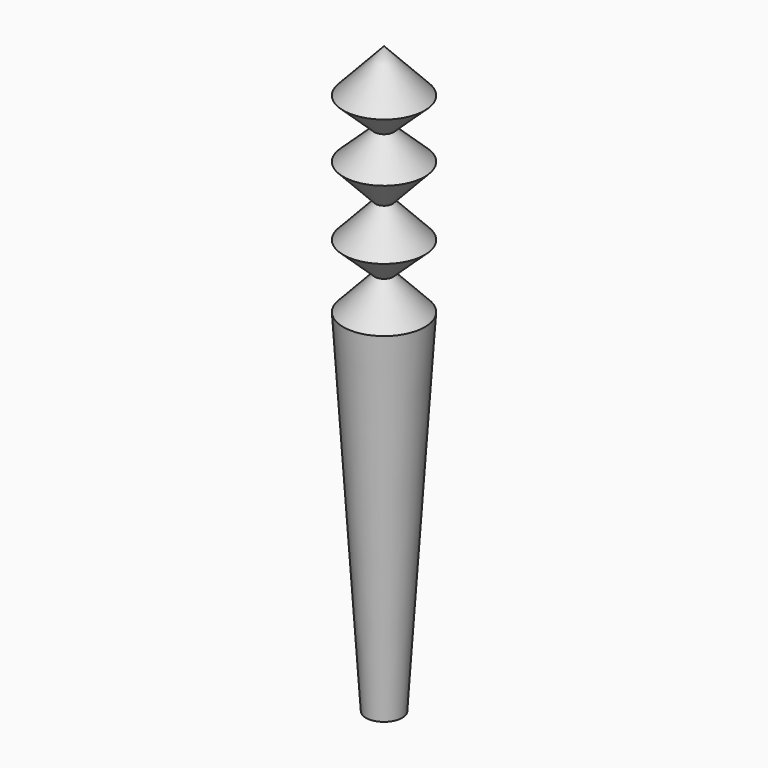
from build123d import *


with BuildPart() as f1:
    # F0 (on Front) → F1 (revolve)
    with BuildSketch(Plane.XZ):
        Polygon((0, 30), (0, 28.75), (0.5332044526, 28.25), (2.2453571536, 29.8555311361), (0, 32.25), align=None)
        Polygon((0, 28.75), (0, 27.75), (0.5332044526, 28.25), align=None)
        Polygon((0, 27.75), (0, 25.25), (0.4688633015, 24.75), (2.2453571536, 26.6444688639), (0.5332044526, 28.25), align=None)
        Polygon((0, 25.25), (0, 24.25), (0.4688633015, 24.75), align=None)
        Polygon((0, 24.25), (0, 21.75), (0.4989682564, 21.217895808), (2.2453571536, 22.8555311361), (0.4688633015, 24.75), align=None)
        Polygon((0, 21.75), (0, 20.75), (0.4989682564, 21.217895808), align=None)
        Polygon((0, 20.75), (0, 0), (1, 0), (2.2453571536, 19.3555311361), (0.4989682564, 21.217895808), align=None)
    revolve(axis=Axis((0, 0, 15), (0, 0, 1)))


solid = f1.part
